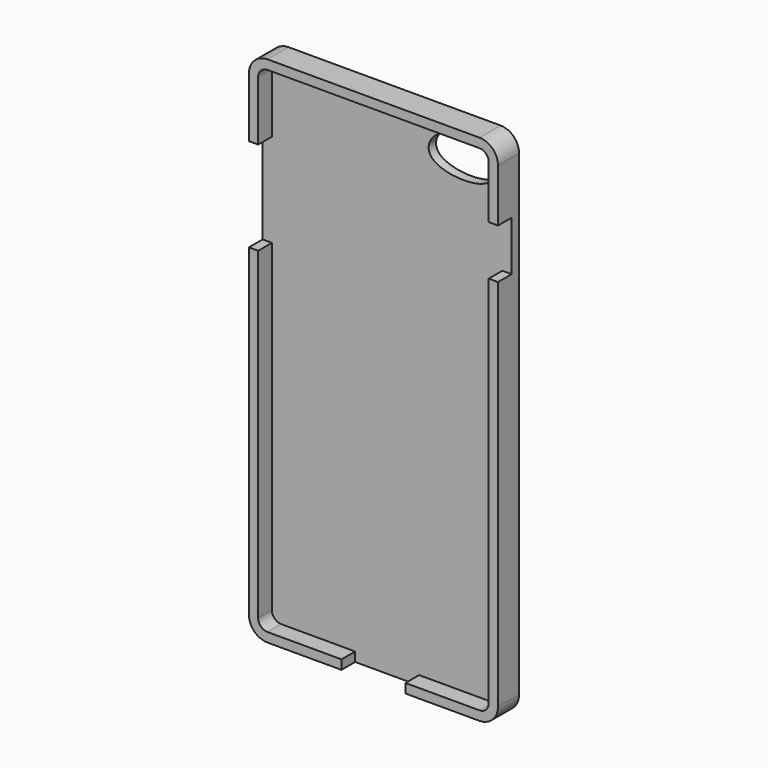
from build123d import *

# Parameters (mm, degrees)
F0_W      = 67.1
F0_H      = 138.3
F1_DEPTH  = 3.55
F2_R      = 5
F3_T      = -2.5
F5_DEPTH  = 12.5
F6_W      = 17.2149091959
F6_H      = 4.6
F7_DEPTH  = 12.5
F8_W      = 4.6
F8_H      = 25.1665320247
F9_DEPTH  = 12.5
F10_W     = 4.6
F10_H     = 13.3939161897
F11_DEPTH = 12.5


with BuildPart() as f1:
    # F0 (on Front) → F1 (new body, symmetric)
    with BuildSketch(Plane.XZ):
        Rectangle(F0_W, F0_H)
    extrude(amount=F1_DEPTH, both=True)

    # F2
    f2_edges = [f1.edges().sort_by_distance(p)[0] for p in [
        (-33.55, 0, 69.15),
        (33.55, 0, 69.15),
        (-33.55, 0, -69.15),
        (33.55, 0, -69.15),
    ]]
    fillet(f2_edges, radius=F2_R)

    # F3
    f3_openings = [f1.faces().sort_by_distance(p)[0] for p in [
        (0, -3.55, 0),
    ]]
    offset(amount=F3_T, openings=f3_openings)

    # F4 (on Front) → F5 (cut, symmetric)
    with BuildSketch(Plane.XZ):
        with BuildLine():
            add(Edge.make_bspline(
                [(13.5491024703, 63.1798133254), (17.0743458114, 65.6223290722), (29.066168273, 65.8951681057), (30.1492148881, 53.2998867845), (9.159231679, 54.5898814711), (11.1556270119, 61.5214592968), (13.5491024703, 63.1798133254)],
                knots=[0, 0, 0, 0, 0.2904013559, 0.4958031268, 0.8028310527, 1, 1, 1, 1], degree=3))
        make_face()
    extrude(amount=F5_DEPTH, both=True, mode=Mode.SUBTRACT)

    # F6 (on face) → F7 (cut, symmetric)
    with BuildSketch(Plane.XY.offset(-66.65)):
        with Locations((0, -1.25)):
            Rectangle(F6_W, F6_H)
    extrude(amount=F7_DEPTH, both=True, mode=Mode.SUBTRACT)

    # F8 (on face) → F9 (cut, symmetric)
    with BuildSketch(Plane.YZ.offset(-31.05)):
        with Locations((-1.25, 35.5272786692)):
            Rectangle(F8_W, F8_H)
    extrude(amount=F9_DEPTH, both=True, mode=Mode.SUBTRACT)

    # F10 (on face) → F11 (cut, symmetric)
    with BuildSketch(Plane(origin=(31.05, 0, 0), x_dir=(0, -1, 0), z_dir=(-1, 0, 0))):
        with Locations((1.25, 43.2292446494)):
            Rectangle(F10_W, F10_H)
    extrude(amount=F11_DEPTH, both=True, mode=Mode.SUBTRACT)


solid = f1.part
